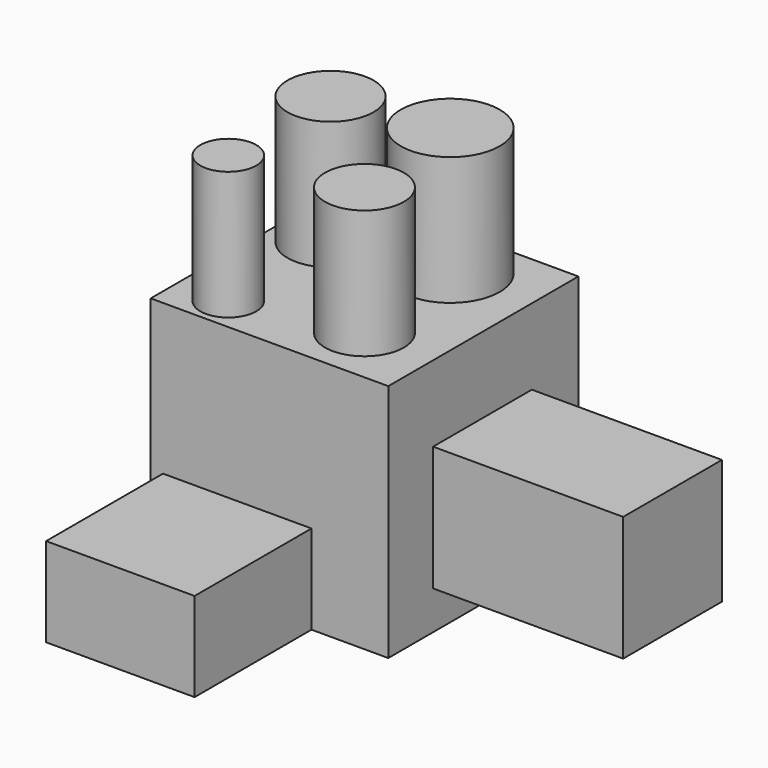
from build123d import *

# Parameters (mm, degrees)
F0_W     = 40
F0_H     = 40
F1_DEPTH = 40.3
F2_W     = 25
F2_H     = 15
F3_DEPTH = 24.6
F6_W     = 20.776337
F6_H     = 21.012508
F7_DEPTH = 32
F8_R     = 7.245927
F8_R_2   = 6.636752
F8_R_3   = 8.331711
F8_R_4   = 4.708623
F9_DEPTH = 21.6


with BuildPart() as f1:
    # F0 (on Top) → F1 (new body)
    with BuildSketch(Plane.XY):
        with Locations((-31.879965, 27.884198)):
            Rectangle(F0_W, F0_H)
    extrude(amount=F1_DEPTH)

    # F2 (on face) → F3 (join)
    with BuildSketch(Plane.XZ.offset(-7.884198)):
        with Locations((-37.312957, 7.5)):
            Rectangle(F2_W, F2_H)
    extrude(amount=F3_DEPTH)

    # F6 (on face) → F7 (join)
    with BuildSketch(Plane.YZ.offset(-11.879965)):
        with Locations((27.700019, 16.992602)):
            Rectangle(F6_W, F6_H)
    extrude(amount=F7_DEPTH)

    # F8 (on face) → F9 (join)
    with BuildSketch(Plane.XY.offset(40.3)):
        with Locations((-43.442782, 35.17646)):
            Circle(F8_R)
        with Locations((-23.779849, 17.740337)):
            Circle(F8_R_2)
        with Locations((-25.526628, 37.980523)):
            Circle(F8_R_3)
        with Locations((-43.442782, 13.669529)):
            Circle(F8_R_4)
    extrude(amount=F9_DEPTH)


solid = f1.part
